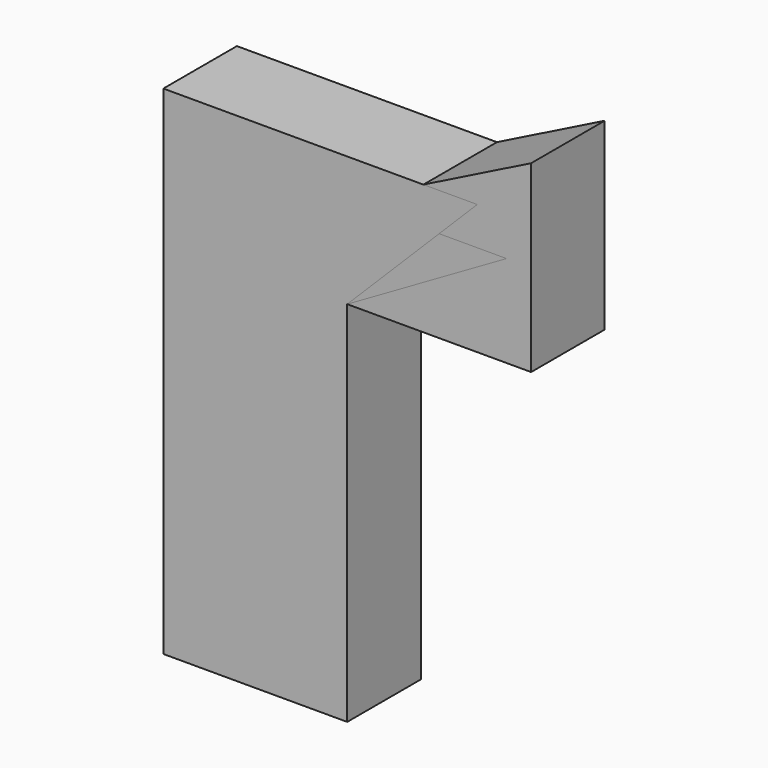
from build123d import *

# Parameters (mm, degrees)
F0_W     = 25.4
F0_H     = 50.8
F1_DEPTH = 6.35
F2_W     = 25.4
F2_H     = 50.8
F3_DEPTH = 6.35
F4_W     = 25.4
F4_H     = 50.8
F5_DEPTH = 6.35


with BuildPart() as f1:
    # F0 (on Front) → F1 (new body, symmetric)
    with BuildSketch(Plane.XZ):
        Rectangle(F0_W, F0_H)
        Polygon((-12.7, 25.4), (12.7, 25.4), (38.1, 25.4), (38.1, 50.8), align=None)
    extrude(amount=F1_DEPTH, both=True)


with BuildPart() as f3:
    # F2 (on Front) → F3 (new body, symmetric)
    with BuildSketch(Plane.XZ):
        Rectangle(F2_W, F2_H)
        Polygon((-12.7, 25.4), (12.7, 25.4), (34.697045, 38.1), (-12.7, 38.1), align=None)
    extrude(amount=F3_DEPTH, both=True)


with BuildPart() as f5:
    # F4 (on Front) → F5 (new body, symmetric)
    with BuildSketch(Plane.XZ):
        Polygon((-12.7, 25.4), (12.7, 25.4), (30.660512, 43.360512), (-12.7, 43.360512), align=None)
        Rectangle(F4_W, F4_H)
    extrude(amount=F5_DEPTH, both=True)


solid = Compound([f1.part, f3.part, f5.part])
